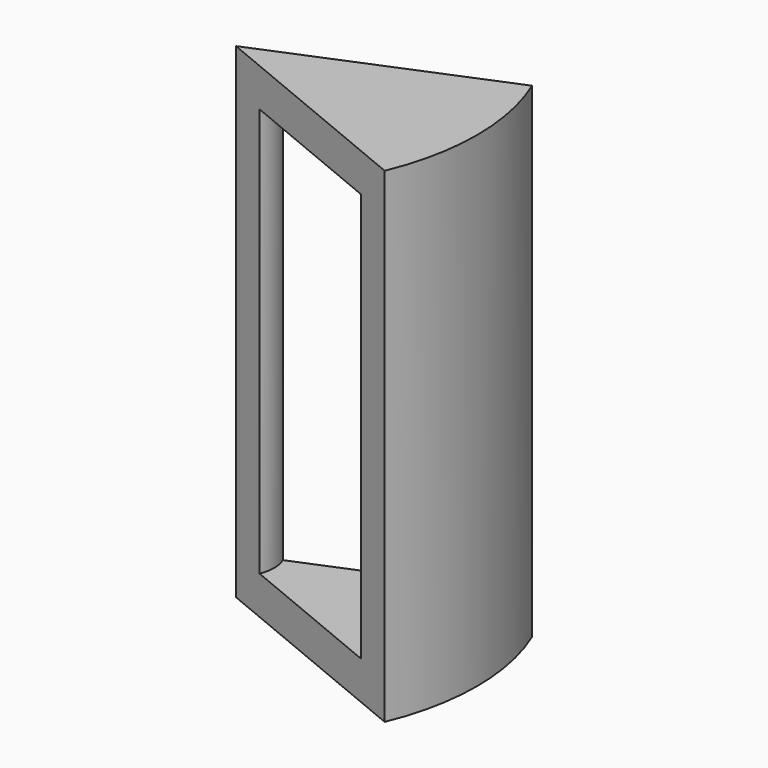
from build123d import *

# Parameters (mm, degrees)
F1_DEPTH = 127
F2_W     = 43.000000447
F2_H     = 107.000000447
F3_ANGLE = 85


with BuildPart() as f1:
    # F0 (on Top) → F1 (new body)
    with BuildSketch(Plane.XY):
        with BuildLine():
            Line((58.2044105482, 24.109056239), (0, 0))
            Line((0, 0), (58.2044105482, -24.109056239))
            ThreePointArc((58.2044105482, -24.109056239), (63.0838940304, 0), (58.2044105482, 24.109056239))
        make_face()
    extrude(amount=F1_DEPTH)

    # F2 (on face) → F3 (revolve, cut)
    with BuildSketch(Plane(origin=(0, 0, 0), x_dir=(0.9238795325, -0.3826834324, 0), z_dir=(-0.3826834324, -0.9238795325, 0))):
        with Locations((31.5, 63.5)):
            Rectangle(F2_W, F2_H)
    revolve(axis=Axis((0, 0, 63.5), (0, 0, 1)), revolution_arc=F3_ANGLE, mode=Mode.SUBTRACT)


solid = f1.part
